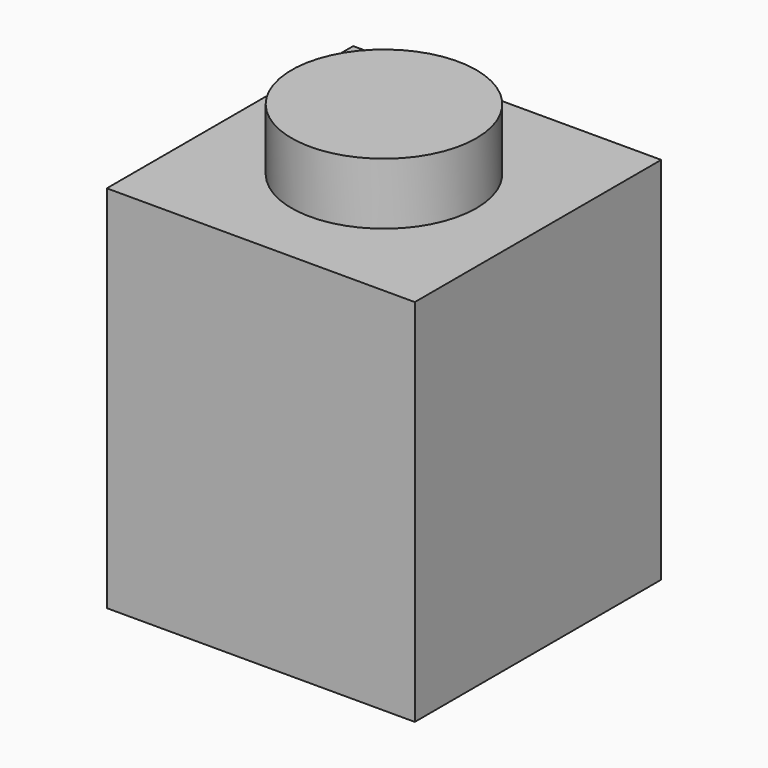
from build123d import *

# Parameters (mm, degrees)
F0_W     = 8
F0_H     = 9.6
F1_DEPTH = 4
F2_W     = 4.8
F2_H     = 4.8
F3_DEPTH = 8
F4_R     = 1.6
F5_DEPTH = 1.6
F6_R     = 2.4
F6_R_2   = 1.6
F7_DEPTH = 1.6


with BuildPart() as f1:
    # F0 (on Front) → F1 (new body, symmetric)
    with BuildSketch(Plane.XZ):
        with Locations((0, 4.8)):
            Rectangle(F0_W, F0_H)
    extrude(amount=F1_DEPTH, both=True)

    # F2 (on face) → F3 (cut)
    with BuildSketch(Plane(origin=(0, 0, 0), x_dir=(1, 0, 0), z_dir=(0, 0, -1))):
        Rectangle(F2_W, F2_H)
    extrude(amount=-F3_DEPTH, mode=Mode.SUBTRACT)

    # F4 (on face) → F5 (cut)
    with BuildSketch(Plane.XY.offset(9.6)):
        Circle(F4_R)
    extrude(amount=-F5_DEPTH, mode=Mode.SUBTRACT)

    # F6 (on face) → F7 (join)
    with BuildSketch(Plane.XY.offset(9.6)):
        Circle(F6_R)
        Circle(F6_R_2)
    extrude(amount=F7_DEPTH)


solid = f1.part
